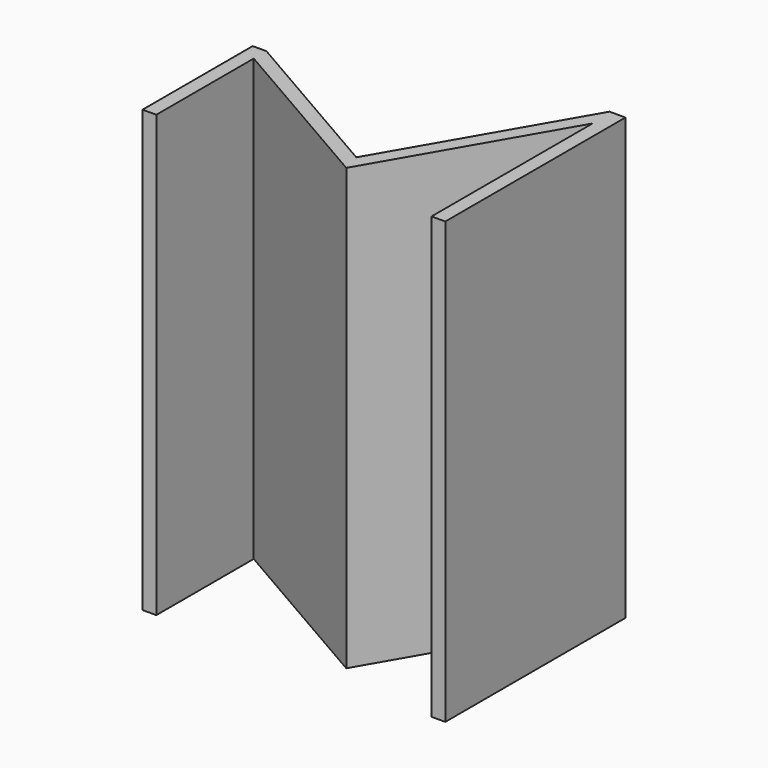
from build123d import *

# Parameters (mm, degrees)
F1_DEPTH = 203.2


with BuildPart() as f1:
    # F0 (on Top) → F1 (new body)
    with BuildSketch(Plane.XY):
        Polygon((-97.927715, 63.5), (-97.927715, 0), (-91.577715, 0), (-91.577715, 56.167652), (-91.577715, 63.5), align=None)
        Polygon((-91.577715, 63.5), (-91.577715, 56.167652), (-12.263796, 10.375739), (35.361204, 92.864658), (35.361204, 0), (41.711204, 0), (41.711204, 103.863181), (34.378856, 103.863181), (-14.588057, 19.05), align=None)
    extrude(amount=F1_DEPTH)


solid = f1.part
